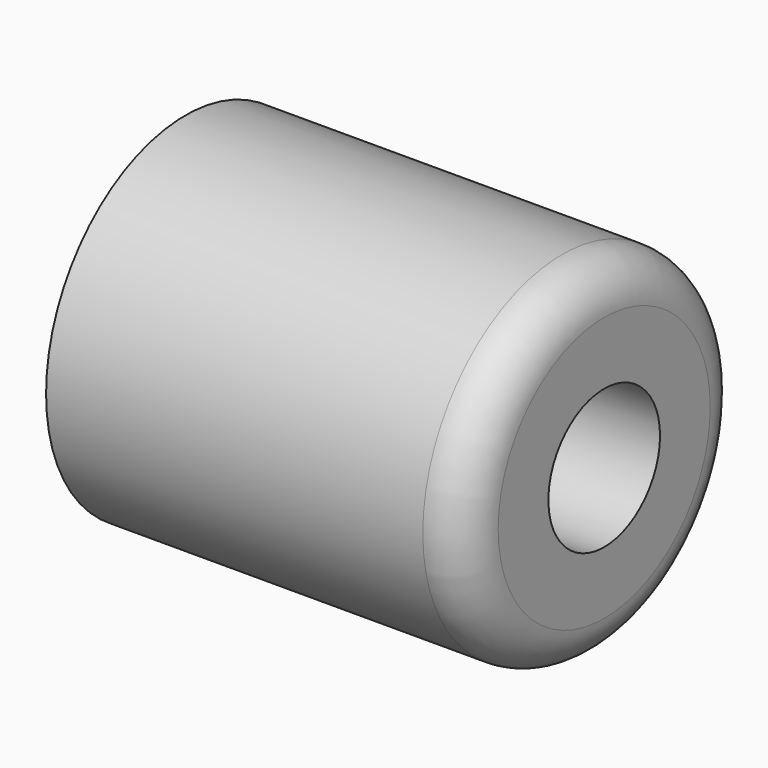
from build123d import *

# Parameters (mm, degrees)
F0_R           = 12.5
F1_DEPTH       = 30
F2_R           = 3
F4_D           = 6
F4_CBORE_D     = 10
F4_CBORE_DEPTH = 10


with BuildPart() as f1:
    # F0 (on Right) → F1 (new body)
    with BuildSketch(Plane.YZ):
        Circle(F0_R)
    extrude(amount=F1_DEPTH)

    # F2
    f2_edges = [f1.edges().sort_by_distance(p)[0] for p in [
        (30, -12.5, 0),
    ]]
    fillet(f2_edges, radius=F2_R)

    # F4 (through all)
    with Locations(Plane.YZ.offset(30)):
        with Locations((0, 0)):
            CounterBoreHole(F4_D / 2, F4_CBORE_D / 2, F4_CBORE_DEPTH)


solid = f1.part
